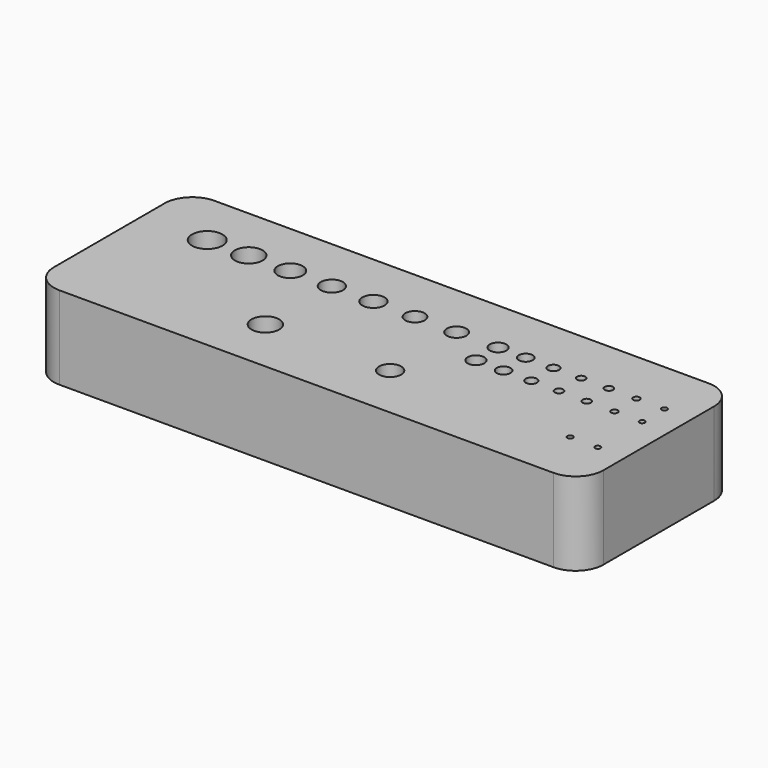
from build123d import *

# Parameters (mm, degrees)
F0_R     = 2.5
F0_R_2   = 2
F0_R_3   = 0.5
F0_R_4   = 2.75
F0_R_5   = 2.25
F0_R_6   = 1.75
F0_R_7   = 1.5
F0_R_8   = 1.25
F0_R_9   = 1
F0_R_10  = 0.75
F0_R_11  = 0.6
F1_DEPTH = 15
F2_R     = 5


with BuildPart() as f1:
    # F0 (on Top) → F1 (new body)
    with BuildSketch(Plane.XY):
        Polygon((-30.352003, -10), (59.647997, -10), (59.647997, 25), (-39.558058, 25), (-39.558058, -10), align=None)
        with Locations((-5.366189, 0)):
            Circle(F0_R, mode=Mode.SUBTRACT)
        with Locations((17.147997, 0)):
            Circle(F0_R_2, mode=Mode.SUBTRACT)
        with Locations((49.647997, 0)):
            Circle(F0_R_3, mode=Mode.SUBTRACT)
        with Locations((54.647997, 0)):
            Circle(F0_R_3, mode=Mode.SUBTRACT)
        with Locations((-27.866189, 15)):
            Circle(F0_R_4, mode=Mode.SUBTRACT)
        with Locations((-20.366189, 15)):
            Circle(F0_R, mode=Mode.SUBTRACT)
        with Locations((-12.866189, 15)):
            Circle(F0_R_5, mode=Mode.SUBTRACT)
        with Locations((-5.366189, 15)):
            Circle(F0_R_2, mode=Mode.SUBTRACT)
        with Locations((2.133811, 15)):
            Circle(F0_R_2, mode=Mode.SUBTRACT)
        with Locations((9.633811, 15)):
            Circle(F0_R_6, mode=Mode.SUBTRACT)
        with Locations((24.633811, 10)):
            Circle(F0_R_7, mode=Mode.SUBTRACT)
        with Locations((29.633811, 10)):
            Circle(F0_R_8, mode=Mode.SUBTRACT)
        with Locations((34.633811, 10)):
            Circle(F0_R_9, mode=Mode.SUBTRACT)
        with Locations((17.147997, 15)):
            Circle(F0_R_6, mode=Mode.SUBTRACT)
        with Locations((24.633811, 15)):
            Circle(F0_R_7, mode=Mode.SUBTRACT)
        with Locations((29.633811, 15)):
            Circle(F0_R_8, mode=Mode.SUBTRACT)
        with Locations((34.633811, 15)):
            Circle(F0_R_9, mode=Mode.SUBTRACT)
        with Locations((39.633811, 10)):
            Circle(F0_R_10, mode=Mode.SUBTRACT)
        with Locations((44.633811, 10)):
            Circle(F0_R_10, mode=Mode.SUBTRACT)
        with Locations((49.647997, 10)):
            Circle(F0_R_11, mode=Mode.SUBTRACT)
        with Locations((54.647997, 10)):
            Circle(F0_R_3, mode=Mode.SUBTRACT)
        with Locations((39.633811, 15)):
            Circle(F0_R_10, mode=Mode.SUBTRACT)
        with Locations((44.633811, 15)):
            Circle(F0_R_10, mode=Mode.SUBTRACT)
        with Locations((49.616333, 15)):
            Circle(F0_R_11, mode=Mode.SUBTRACT)
        with Locations((54.647997, 15)):
            Circle(F0_R_3, mode=Mode.SUBTRACT)
    extrude(amount=F1_DEPTH)

    # F2
    f2_edges = [f1.edges().sort_by_distance(p)[0] for p in [
        (-39.558058, 25, 7.5),
        (-39.558058, -10, 7.5),
        (59.647997, -10, 7.5),
        (59.647997, 25, 7.5),
    ]]
    fillet(f2_edges, radius=F2_R)


solid = f1.part
